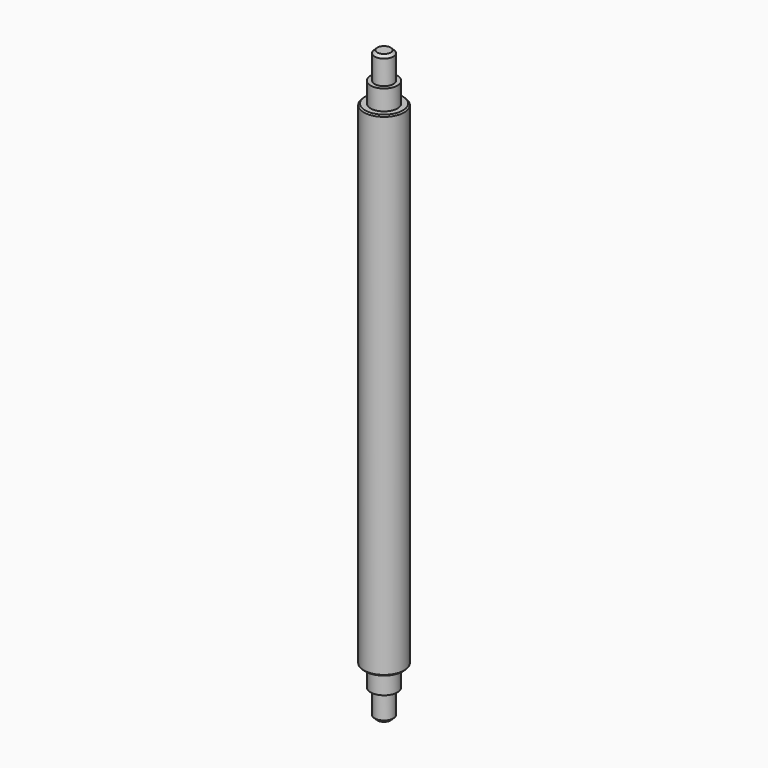
from build123d import *

# Parameters (mm, degrees)
F0_R     = 0.7
F1_DEPTH = 2
F2_R     = 1
F2_R_2   = 0.7
F3_DEPTH = 1.5
F4_R     = 1.5
F4_R_2   = 1
F5_DEPTH = 36.75
F6_R     = 1
F7_DEPTH = 1.5
F8_R     = 0.7
F9_DEPTH = 2
F10_SIZE = 0.2
F11_SIZE = 0.1


with BuildPart() as f1:
    # F0 (on Top) → F1 (new body)
    with BuildSketch(Plane.XY):
        Circle(F0_R)
    extrude(amount=F1_DEPTH)

    # F2 (on face) → F3 (join)
    with BuildSketch(Plane.XY.offset(2)):
        Circle(F2_R)
        Circle(F2_R_2, mode=Mode.SUBTRACT)
        Circle(F2_R_2)
    extrude(amount=F3_DEPTH)

    # F4 (on face) → F5 (join)
    with BuildSketch(Plane.XY.offset(3.5)):
        Circle(F4_R)
        Circle(F4_R_2, mode=Mode.SUBTRACT)
        Circle(F4_R_2)
    extrude(amount=F5_DEPTH)

    # F6 (on face) → F7 (join)
    with BuildSketch(Plane.XY.offset(40.25)):
        Circle(F6_R)
    extrude(amount=F7_DEPTH)

    # F8 (on face) → F9 (join)
    with BuildSketch(Plane.XY.offset(41.75)):
        Circle(F8_R)
    extrude(amount=F9_DEPTH)

    # F10
    f10_edges = [f1.edges().sort_by_distance(p)[0] for p in [
        (-0.7, 0, 0),
        (-0.7, 0, 43.75),
    ]]
    chamfer(f10_edges, length=F10_SIZE)

    # F11
    f11_edges = [f1.edges().sort_by_distance(p)[0] for p in [
        (-1.5, 0, 40.25),
        (-1.5, 0, 3.5),
    ]]
    chamfer(f11_edges, length=F11_SIZE)


solid = f1.part
